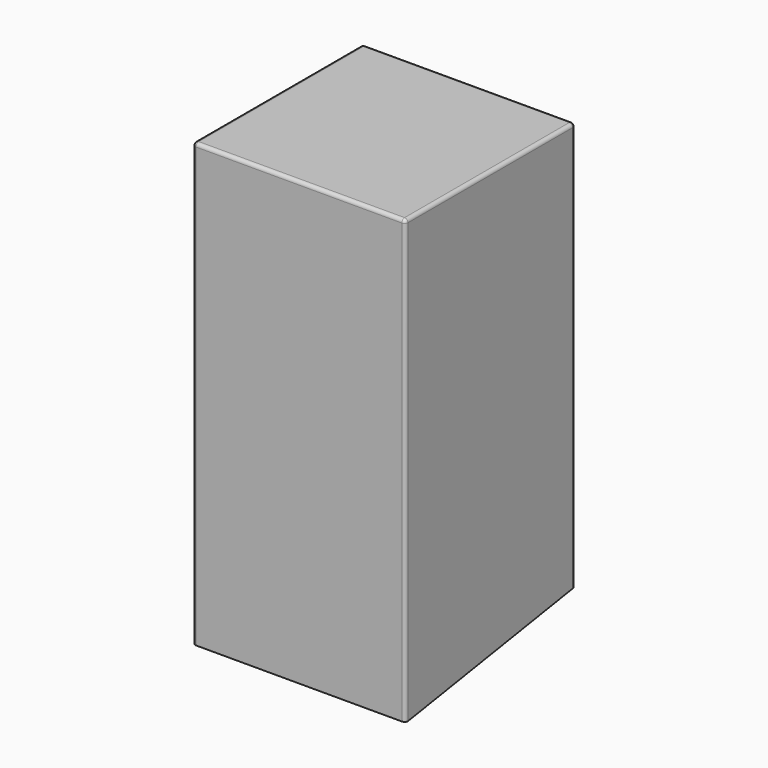
from build123d import *

# Parameters (mm, degrees)
F0_W     = 79.375
F0_H     = 79.375
F1_DEPTH = 165.1
F2_W     = 76.2
F2_H     = 76.2
F3_DEPTH = 162.56
F4_R     = 1.27
F6_DEPTH = 79.376


with BuildPart() as f1:
    # F0 (on Top) → F1 (new body)
    with BuildSketch(Plane.XY):
        Rectangle(F0_W, F0_H)
    extrude(amount=F1_DEPTH)

    # F2 (on face) → F3 (cut)
    with BuildSketch(Plane(origin=(0, 0, 0), x_dir=(1, 0, 0), z_dir=(0, 0, -1))):
        Rectangle(F2_W, F2_H)
    extrude(amount=-F3_DEPTH, mode=Mode.SUBTRACT)

    # F4
    f4_edges = [f1.edges().sort_by_distance(p)[0] for p in [
        (39.6875, -39.6875, 82.55),
        (39.6875, 0, 165.1),
        (39.6875, 39.6875, 82.55),
        (-39.6875, -39.6875, 82.55),
        (0, -39.6875, 165.1),
        (0, 39.6875, 165.1),
        (-39.6875, 39.6875, 82.55),
        (-39.6875, 0, 165.1),
    ]]
    fillet(f4_edges, radius=F4_R)

    # F5 (on face) → F6 (cut, through all)
    with BuildSketch(Plane.YZ.offset(39.6875)):
        Polygon((46.8884, 13.7033), (-38.4175, 0), (46.8884, -9.378617), align=None)
    extrude(amount=-F6_DEPTH, mode=Mode.SUBTRACT)


solid = f1.part
